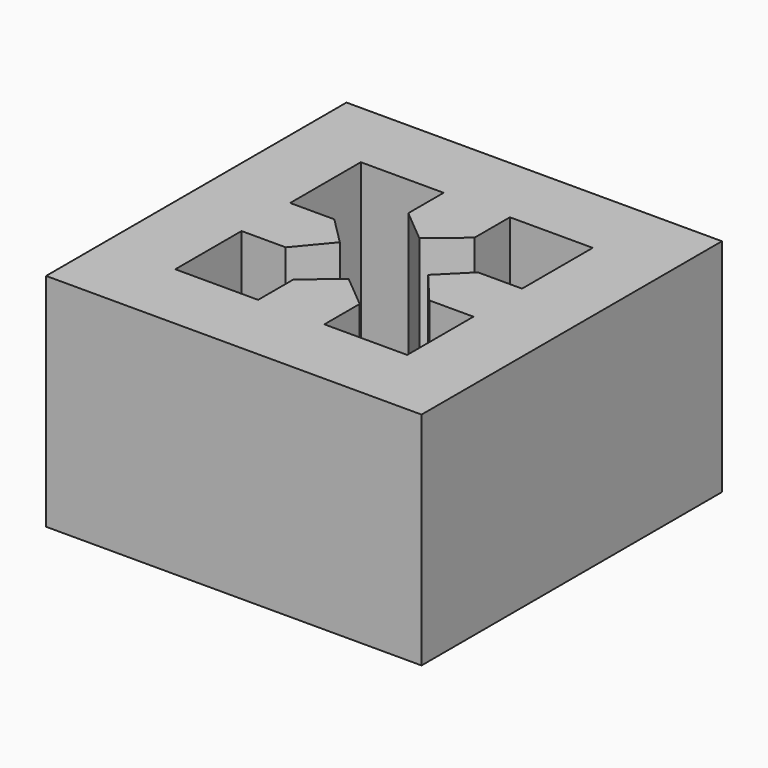
from build123d import *

# Parameters (mm, degrees)
SKETCH_W     = 34
SKETCH_H     = 34
PAD_DEPTH    = 20
POCKET_DEPTH = 20


with BuildPart() as part:
    # Sketch → Pad (new body)
    with BuildSketch(Plane.XY):
        with Locations((17, 17)):
            Rectangle(SKETCH_W, SKETCH_H)
    extrude(amount=PAD_DEPTH)

    # Sketch001 (on Face6 of Pad) → Pocket (cut)
    with BuildSketch(Plane.XY.offset(20)):
        Polygon((6.5, 27.5), (14, 27.5), (14, 23.5), (17, 21), (20, 23.5), (20, 27.5), (27.5, 27.5), (27.5, 19.5), (23.5, 19.5), (21, 17), (23.5, 14), (27.5, 14), (27.5, 6.5), (20, 6.5), (20, 10.5), (17, 13), (14, 10.5), (14, 6.5), (6.5, 6.5), (6.5, 14), (10.5, 14), (13, 17), (10.5, 19.5), (6.5, 19.5), align=None)
    extrude(amount=-POCKET_DEPTH, mode=Mode.SUBTRACT)


solid = part.part
